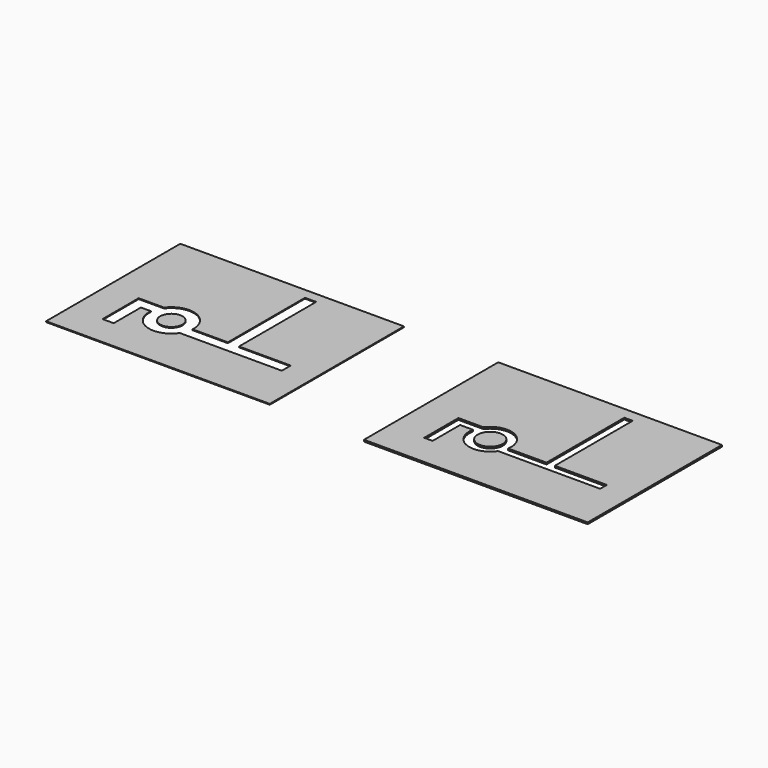
from build123d import *

# Parameters (mm, degrees)
F0_W          = 800
F0_H          = 600
F1_DEPTH      = 3
F2_R          = 40
F3_DEPTH      = 25
F3_DEPTH_BACK = 25
F4_W          = 800
F4_H          = 600
F5_DEPTH      = 6
F6_R          = 45
F7_DEPTH      = 40
F7_DEPTH_BACK = -20


with BuildPart() as f1:
    # F0 (on Top) → F1 (new body)
    with BuildSketch(Plane.XY):
        with Locations((-147.821496, 24.03833)):
            Rectangle(F0_W, F0_H)
    extrude(amount=F1_DEPTH)

    # F2 (on Top) → F3 (cut, two sides)
    with BuildSketch(Plane.XY) as f3_sk:
        with BuildLine():
            Line((-432.814626, -5.75679), (-432.814626, -167.42346))
            Line((-432.814626, -167.42346), (-392.814626, -167.42346))
            Line((-392.814626, -167.42346), (-392.814626, -45.75679))
            Line((-392.814626, -45.75679), (-357.430327, -45.75679))
            ThreePointArc((-357.430327, -45.75679), (-305.018124, -128.595527), (-211.729365, -98.487345))
            Line((-211.729365, -98.487345), (153.270622, -98.487345))
            Line((153.270622, -98.487345), (153.270622, -58.580241))
            Line((153.270622, -58.580241), (-31.729385, -58.580241))
            Line((-31.729385, -58.580241), (-31.729385, 286.419781))
            Line((-31.729385, 286.419781), (-71.729385, 286.419781))
            Line((-71.729385, 286.419781), (-71.729385, -58.487345))
            Line((-71.729385, -58.487345), (-197.957258, -58.487345))
            ThreePointArc((-197.957258, -58.487345), (-250.30591, 21.759038), (-342.081411, -5.75679))
            Line((-342.081411, -5.75679), (-432.814626, -5.75679))
        make_face()
        with Locations((-277.793447, -53.370419)):
            Circle(F2_R, mode=Mode.SUBTRACT)
    extrude(amount=F3_DEPTH, mode=Mode.SUBTRACT)
    extrude(f3_sk.sketch, amount=-F3_DEPTH_BACK, mode=Mode.SUBTRACT)


with BuildPart() as f5:
    # F4 (on Top) → F5 (new body)
    with BuildSketch(Plane.XY):
        with Locations((772.762479, 33.412971)):
            Rectangle(F4_W, F4_H)
    extrude(amount=F5_DEPTH)


with BuildPart() as f7:
    # F6 (on Top) → F7 (new body, two sides)
    with BuildSketch(Plane.XY) as f7_sk:
        with BuildLine():
            Line((-235.430983, 7.651758), (-235.430983, -145.348242))
            Line((-235.430983, -145.348242), (-205.430983, -145.348242))
            Line((-205.430983, -145.348242), (-205.430983, -22.348242))
            Line((-205.430983, -22.348242), (-159.430983, -22.348242))
            ThreePointArc((-159.430983, -22.348242), (-114.927832, -106.129587), (-23.938205, -79.283137))
            Line((-23.938205, -79.283137), (341.061782, -79.283137))
            Line((341.061782, -79.283137), (341.061782, -49.376032))
            Line((341.061782, -49.376032), (155.111723, -49.376032))
            Line((155.111723, -49.376032), (155.111723, 298.716863))
            Line((155.111723, 298.716863), (125.111723, 298.716863))
            Line((125.111723, 298.716863), (125.111723, -49.283137))
            Line((125.111723, -49.283137), (-11.888277, -49.283137))
            ThreePointArc((-11.888277, -49.283137), (-56.591527, 32.061638), (-146.143248, 7.651758))
            Line((-146.143248, 7.651758), (-235.430983, 7.651758))
        make_face()
        with Locations((-85.873282, -36.986018)):
            Circle(F6_R, mode=Mode.SUBTRACT)
    extrude(amount=F7_DEPTH)
    extrude(f7_sk.sketch, amount=-F7_DEPTH_BACK)


with BuildPart() as f7_1:
    # F8: moved
    add(f7.part.moved(Location((740, 0, 0))))


with BuildPart() as f5_1:
    # F9: moved
    add(f5.part.moved(Location((-924, -10, -6))))


with BuildPart() as f7_2:
    # F9: moved
    add(f7_1.part.moved(Location((-924, -10, -6))))


with BuildPart() as f7_3:
    # F10: moved
    add(f7_2.part.moved(Location((-8, -7, -25))))


with BuildPart() as f7_4:
    # F11: moved
    add(f7_3.part.moved(Location((1025, 0, 0))))


with BuildPart() as f5_2:
    # F11: moved
    add(f5_1.part.moved(Location((1025, 0, 0))))

    # F12: cut F7
    add(f7_4.part, mode=Mode.SUBTRACT)


with BuildPart() as f5_3:
    # F13: moved
    add(f5_2.part.moved(Location((116, 0, 0))))


solid = Compound([f1.part, f5_3.part])
